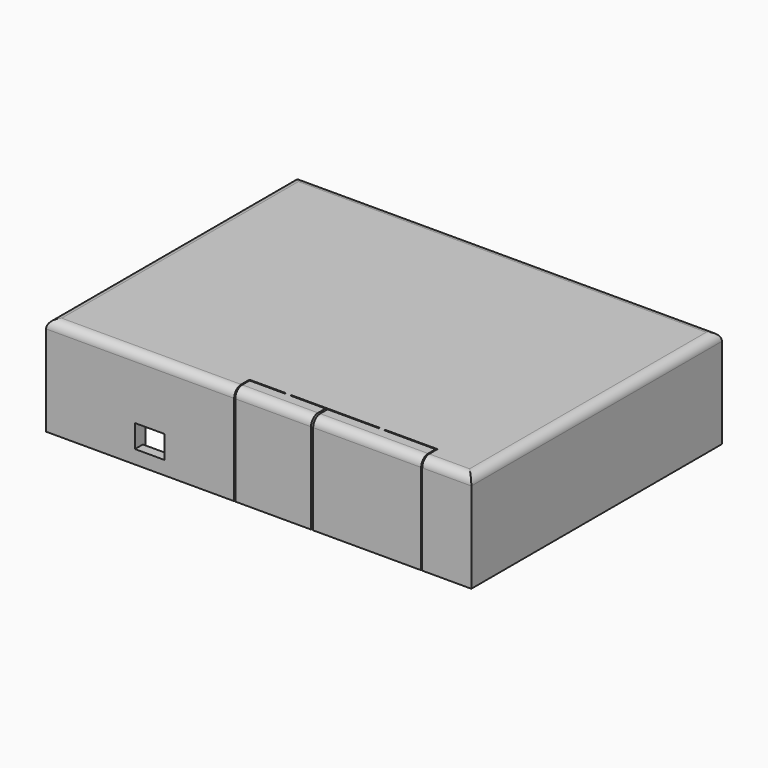
from build123d import *

# Parameters (mm, degrees)
F0_W      = 99.06
F0_H      = 72.9742
F1_DEPTH  = 0.889
F2_W      = 99.06
F2_H      = 72.9742
F2_W_2    = 96.774
F2_H_2    = 66.8274
F3_DEPTH  = 22.225
F4_R      = 2.032
F6_DEPTH  = 25.4
F8_DEPTH  = 25.4
F10_W     = 6.858
F10_H     = 5.334
F11_DEPTH = 72.9752
F12_W     = 6.858
F12_H     = 0.762
F13_DEPTH = 3.175
F15_W     = 6.858
F15_H     = 5.334
F16_DEPTH = 3.0734
F17_W     = 6.858
F17_H     = 0.762
F18_DEPTH = 3.175


with BuildPart() as f1:
    # F0 (on Top) → F1 (new body)
    with BuildSketch(Plane.XY):
        Rectangle(F0_W, F0_H)
    extrude(amount=F1_DEPTH)

    # F2 (on face) → F3 (join)
    with BuildSketch(Plane(origin=(0, 0, 0), x_dir=(1, 0, 0), z_dir=(0, 0, -1))):
        Rectangle(F2_W, F2_H)
        Rectangle(F2_W_2, F2_H_2, mode=Mode.SUBTRACT)
    extrude(amount=F3_DEPTH)

    # F4
    f4_edges = [f1.edges().sort_by_distance(p)[0] for p in [
        (0, -36.4871, 0.889),
        (49.53, 0, 0.889),
        (0, 36.4871, 0.889),
        (-49.53, 0, 0.889),
    ]]
    fillet(f4_edges, radius=F4_R)

    # F5 (on face) → F6 (cut)
    with BuildSketch(Plane.XY.offset(0.889)):
        Polygon((24.638, -32.0421), (12.446, -32.0421), (12.446, -36.4871), (12.7, -36.4871), (12.7, -32.2961), (24.638, -32.2961), align=None)
        Polygon((38.1, -36.4871), (38.1, -32.0421), (25.908, -32.0421), (25.908, -32.2961), (37.846, -32.2961), (37.846, -36.4871), align=None)
    extrude(amount=-F6_DEPTH, mode=Mode.SUBTRACT)

    # F7 (on face) → F8 (cut)
    with BuildSketch(Plane.XY.offset(0.889)):
        Polygon((12.446, -32.0421), (4.0005, -32.0421), (4.0005, -32.2961), (12.192, -32.2961), (12.192, -36.4871), (12.446, -36.4871), align=None)
        Polygon((2.7305, -32.2961), (2.7305, -32.0421), (-5.715, -32.0421), (-5.715, -36.4871), (-5.461, -36.4871), (-5.461, -32.2961), align=None)
    extrude(amount=-F8_DEPTH, mode=Mode.SUBTRACT)

    # F10 (on face) → F11 (cut, through all)
    with BuildSketch(Plane.XZ.offset(36.4871)):
        with Locations((-25.4, -16.383)):
            Rectangle(F10_W, F10_H)
    extrude(amount=-F11_DEPTH, mode=Mode.SUBTRACT)

    # F12 (on face) → F13 (cut, through all)
    with BuildSketch(Plane(origin=(0, 0, -22.225), x_dir=(1, 0, 0), z_dir=(0, 0, -1))):
        with Locations((-25.4, 33.7947)):
            Rectangle(F12_W, F12_H)
        with Locations((-25.4, -33.7947)):
            Rectangle(F12_W, F12_H)
    extrude(amount=-F13_DEPTH, mode=Mode.SUBTRACT)

    # F15 (on face) → F16 (cut, through all)
    with BuildSketch(Plane(origin=(0, 36.4871, 0), x_dir=(-1, 0, 0), z_dir=(0, 1, 0))):
        with Locations((-25.4, -16.383)):
            Rectangle(F15_W, F15_H)
    extrude(amount=-F16_DEPTH, mode=Mode.SUBTRACT)

    # F17 (on face) → F18 (cut, through all)
    with BuildSketch(Plane(origin=(0, 0, -22.225), x_dir=(1, 0, 0), z_dir=(0, 0, -1))):
        with Locations((25.4, -33.7947)):
            Rectangle(F17_W, F17_H)
    extrude(amount=-F18_DEPTH, mode=Mode.SUBTRACT)


solid = f1.part
